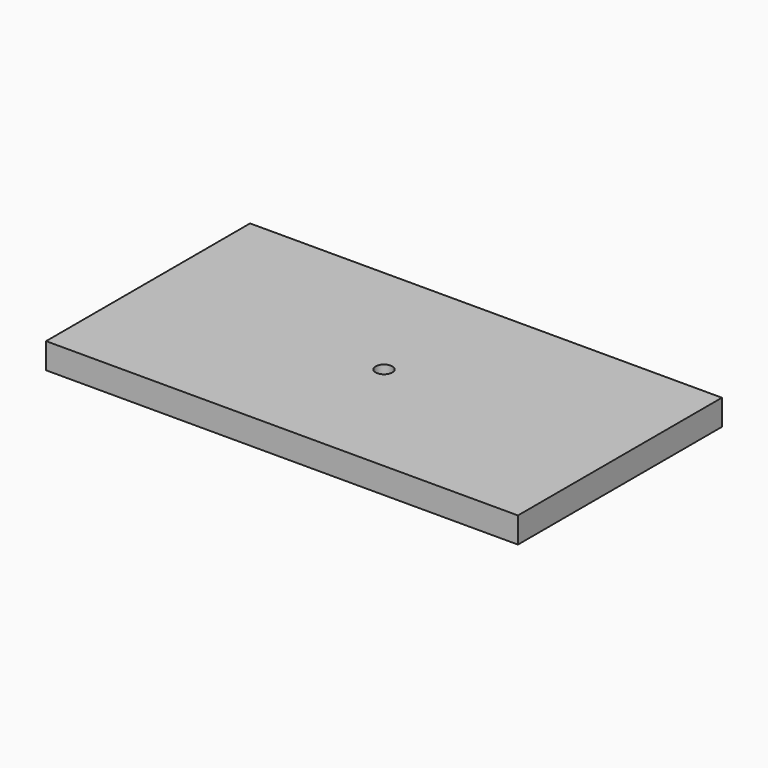
from build123d import *

# Parameters (mm, degrees)
F0_W     = 183.6964
F0_H     = 99.261144
F0_R     = 3.25
F1_DEPTH = 10
F2_R     = 3.25
F3_DEPTH = 3


with BuildPart() as f1:
    # F0 (on Top) → F1 (new body)
    with BuildSketch(Plane.XY):
        Rectangle(F0_W, F0_H)
        Circle(F0_R, mode=Mode.SUBTRACT)
    extrude(amount=F1_DEPTH)

    # F2 (on face) → F3 (cut)
    with BuildSketch(Plane.XY):
        with BuildLine():
            ThreePointArc((-5, 0), (0, -5), (5, 0))
            ThreePointArc((5, 0), (0, 5), (-5, 0))
        make_face()
        Circle(F2_R, mode=Mode.SUBTRACT)
    extrude(amount=F3_DEPTH, mode=Mode.SUBTRACT)


solid = f1.part
